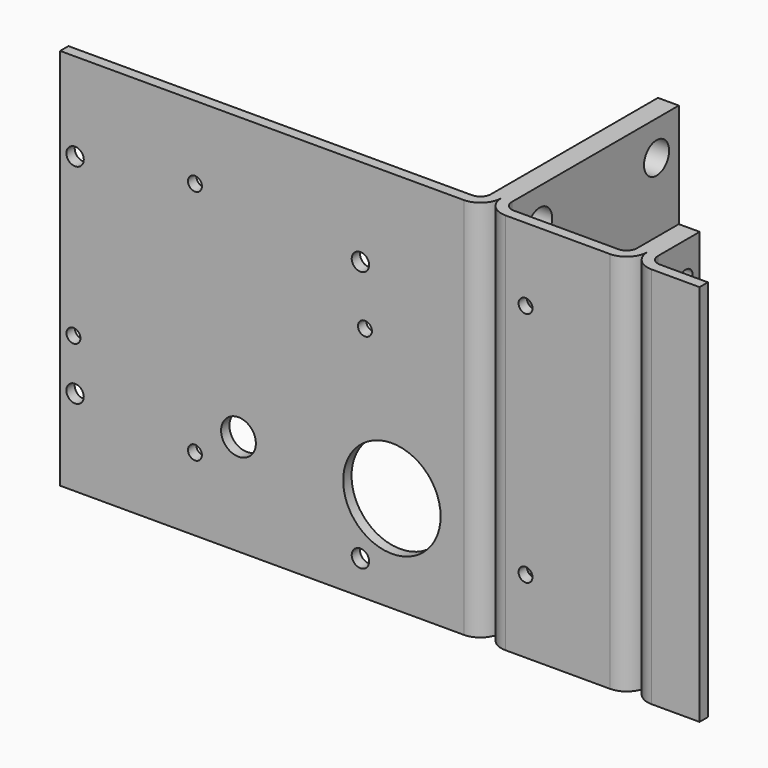
from build123d import *

# Parameters (mm, degrees)
F1_DEPTH      = 55
F1_DEPTH_BACK = 55
F2_R          = 2.5
F3_DEPTH      = 45.001
F5_DEPTH      = 55
F5_DEPTH_BACK = 55
F6_R          = 4.5
F7_DEPTH      = 6
F8_R          = 4.5
F9_DEPTH      = 6
F10_R         = 2
F11_DEPTH     = 3
F12_R         = 14
F13_DEPTH     = 3
F14_R         = 2.5
F15_DEPTH     = 3
F16_R         = 5
F17_DEPTH     = 3
F18_R         = 2
F19_DEPTH     = 3


with BuildPart() as f1:
    # F0 (on Top) → F1 (new body, two sides)
    with BuildSketch(Plane.XY) as f1_sk:
        with BuildLine():
            Line((-39, 45), (-42, 45))
            Line((-42, 45), (-42, -15))
            ThreePointArc((-42, -15), (-40.242641, -19.242641), (-36, -21))
            Line((-36, -21), (-6, -21))
            ThreePointArc((-6, -21), (-1.757359, -19.242641), (0, -15))
            ThreePointArc((0, -15), (1.757359, -19.242641), (6, -21))
            Line((6, -21), (19.753644, -21))
            Line((19.753644, -21), (19.753644, -18))
            Line((19.753644, -18), (6, -18))
            ThreePointArc((6, -18), (3.87868, -17.12132), (3, -15))
            Line((3, -15), (3, 0))
            Line((3, 0), (-3, 0))
            Line((-3, 0), (-3, -15))
            ThreePointArc((-3, -15), (-3.87868, -17.12132), (-6, -18))
            Line((-6, -18), (-36, -18))
            ThreePointArc((-36, -18), (-38.12132, -17.12132), (-39, -15))
            Line((-39, -15), (-39, 45))
        make_face()
    extrude(amount=F1_DEPTH)
    extrude(f1_sk.sketch, amount=-F1_DEPTH_BACK)

    # F2 (on face) → F3 (cut, through all)
    with BuildSketch(Plane.YZ.offset(3)):
        with Locations((-5, 45)):
            Circle(F2_R)
        with Locations((-5, 0)):
            Circle(F2_R)
        with Locations((-5, -45)):
            Circle(F2_R)
    extrude(amount=-F3_DEPTH, mode=Mode.SUBTRACT)

    # F4 (on Top) → F5 (join, two sides)
    with BuildSketch(Plane.XY) as f5_sk:
        with BuildLine():
            Line((-42, -15), (-42, 45))
            Line((-42, 45), (-45, 45))
            Line((-45, 45), (-45, -15))
            ThreePointArc((-45, -15), (-45.87868, -17.12132), (-48, -18))
            Line((-48, -18), (-164, -18))
            Line((-164, -18), (-164, -21))
            Line((-164, -21), (-48, -21))
            ThreePointArc((-48, -21), (-43.757359, -19.242641), (-42, -15))
        make_face()
    extrude(amount=F5_DEPTH)
    extrude(f5_sk.sketch, amount=-F5_DEPTH_BACK)

    # F6 (on face) → F7 (cut)
    with BuildSketch(Plane.YZ.offset(-39)):
        with Locations((-5, 45)):
            Circle(F6_R)
        with Locations((-5, 0)):
            Circle(F6_R)
        with Locations((-5, -45)):
            Circle(F6_R)
    extrude(amount=-F7_DEPTH, mode=Mode.SUBTRACT)

    # F8 (on face) → F9 (cut)
    with BuildSketch(Plane.YZ.offset(-39)):
        with Locations((37, 0)):
            Circle(F8_R)
        with Locations((37, -45)):
            Circle(F8_R)
        with Locations((37, 45)):
            Circle(F8_R)
    extrude(amount=-F9_DEPTH, mode=Mode.SUBTRACT)

    # F10 (on face) → F11 (cut)
    with BuildSketch(Plane.XZ.offset(21)):
        with Locations((-30.246356, -34)):
            Circle(F10_R)
        with Locations((-30.246356, 34)):
            Circle(F10_R)
        with Locations((-125.246356, 34)):
            Circle(F10_R)
        with Locations((-125.246356, -34)):
            Circle(F10_R)
    extrude(amount=-F11_DEPTH, mode=Mode.SUBTRACT)

    # F12 (on face) → F13 (cut)
    with BuildSketch(Plane.XZ.offset(21)):
        with Locations((-68.651619, -27.215034)):
            Circle(F12_R)
    extrude(amount=-F13_DEPTH, mode=Mode.SUBTRACT)

    # F14 (on face) → F15 (cut)
    with BuildSketch(Plane.XZ.offset(21)):
        with Locations((-159.7, 29.7)):
            Circle(F14_R)
        with Locations((-159.7, -30.3)):
            Circle(F14_R)
        with Locations((-77.7, 29.7)):
            Circle(F14_R)
        with Locations((-77.7, -45.3)):
            Circle(F14_R)
    extrude(amount=-F15_DEPTH, mode=Mode.SUBTRACT)

    # F16 (on face) → F17 (cut)
    with BuildSketch(Plane.XZ.offset(21)):
        with Locations((-112.746356, -26)):
            Circle(F16_R)
    extrude(amount=-F17_DEPTH, mode=Mode.SUBTRACT)

    # F18 (on face) → F19 (cut)
    with BuildSketch(Plane.XZ.offset(21)):
        with Locations((-76.393303, 13.251823)):
            Circle(F18_R)
        with Locations((-160.16324, -15.807402)):
            Circle(F18_R)
    extrude(amount=-F19_DEPTH, mode=Mode.SUBTRACT)


solid = f1.part
